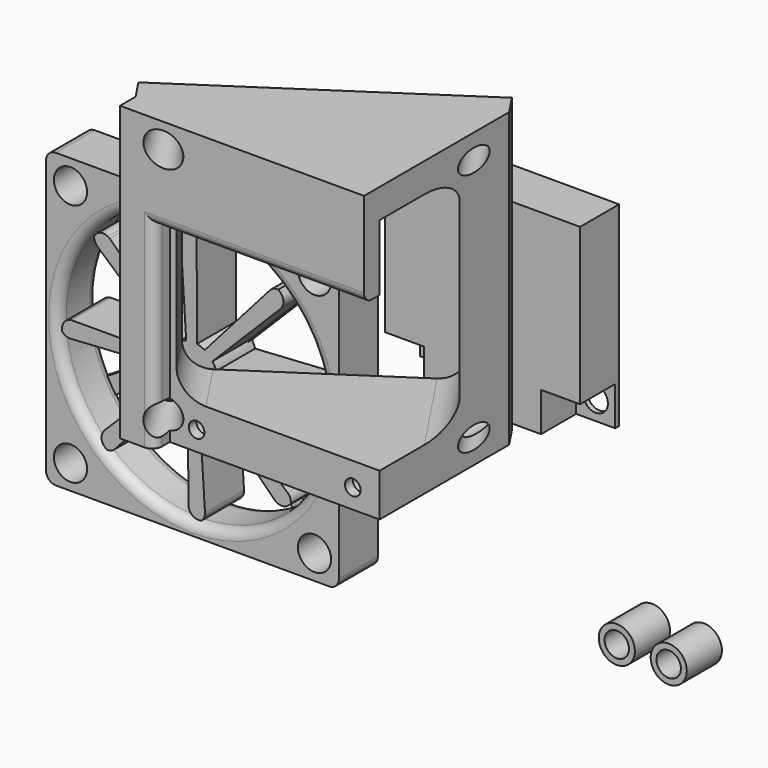
from build123d import *

# Parameters (mm, degrees)
F0_W      = 8
F0_H      = 8
F0_R      = 2.5
F1_DEPTH  = 1
F2_DEPTH  = 10
F3_W      = 60
F3_H      = 60
F3_R      = 3.3994647276
F4_DEPTH  = 10
F5_R      = 3.7
F5_R_2    = 2.5
F6_DEPTH  = 9
F8_DEPTH  = 60
F9_DEPTH  = 5
F10_R     = 2.25
F12_DEPTH = 50
F11_R     = 2.6
F11_R_2   = 1.6
F13_DEPTH = 53.9796929806
F14_DEPTH = 2
F15_DEPTH = 4
F16_R     = 2
F17_DEPTH = 30.9588201344
F17_TAPER = -5
F18_R     = 2
F19_R     = 27.5
F19_R_2   = 5
F20_DEPTH = 25
F21_R     = 2
F23_DEPTH = 10
F24_COUNT = 8
F27_DEPTH = 1


with BuildPart() as f1:
    # F0 (on Front) → F1 (new body)
    with BuildSketch(Plane.XZ):
        with Locations((11.8204413974, 3.2194096744)):
            Rectangle(F0_W, F0_H)
        with Locations((11.8204413974, 3.2194096744)):
            Circle(F0_R, mode=Mode.SUBTRACT)
        with Locations((-20.1795586026, 3.2194096744)):
            Rectangle(F0_W, F0_H)
        with Locations((-20.1795586026, 3.2194096744)):
            Circle(F0_R, mode=Mode.SUBTRACT)
        Polygon((15.8204413974, 39.2194096744), (-24.1795586026, 39.2194096744), (-24.1795586026, 7.2194096744), (-16.1795586026, 7.2194096744), (-16.1795586026, -0.7805903256), (7.8204413974, -0.7805903256), (7.8204413974, 7.2194096744), (15.8204413974, 7.2194096744), align=None)
    extrude(amount=F1_DEPTH)

    # F0 (on Front) → F2 (join)
    with BuildSketch(Plane.XZ):
        Polygon((15.8204413974, 39.2194096744), (-24.1795586026, 39.2194096744), (-24.1795586026, 7.2194096744), (-16.1795586026, 7.2194096744), (-16.1795586026, -0.7805903256), (7.8204413974, -0.7805903256), (7.8204413974, 7.2194096744), (15.8204413974, 7.2194096744), align=None)
    extrude(amount=F2_DEPTH)


with BuildPart() as f4:
    # F3 (on Front) → F4 (new body)
    with BuildSketch(Plane.XZ):
        with Locations((-63.5934416205, -12.3535052731)):
            Rectangle(F3_W, F3_H)
        with Locations((-88.5934416205, -37.3535052731)):
            Circle(F3_R, mode=Mode.SUBTRACT)
        with Locations((-38.5934416205, -37.3535052731)):
            Circle(F3_R, mode=Mode.SUBTRACT)
        with Locations((-88.5934416205, 12.6464947269)):
            Circle(F3_R, mode=Mode.SUBTRACT)
        with Locations((-38.5934416205, 12.6464947269)):
            Circle(F3_R, mode=Mode.SUBTRACT)
    extrude(amount=F4_DEPTH)

    # F18
    f18_edges = [f4.edges().sort_by_distance(p)[0] for p in [
        (-93.593442, -5, 17.646495),
        (-33.593442, -5, 17.646495),
        (-33.593442, -5, -42.353505),
        (-93.593442, -5, -42.353505),
    ]]
    fillet(f18_edges, radius=F18_R)

    # F19 (on face) → F20 (cut)
    with BuildSketch(Plane.XZ.offset(10)):
        with Locations((-63.5934416205, -12.3535052731)):
            Circle(F19_R)
        with Locations((-63.5934416205, -12.3535052731)):
            Circle(F19_R_2, mode=Mode.SUBTRACT)
    extrude(amount=-F20_DEPTH, mode=Mode.SUBTRACT)

    # F21
    f21_edges = [f4.edges().sort_by_distance(p)[0] for p in [
        (-91.093442, -10, -12.353505),
        (-91.093442, 0, -12.353505),
    ]]
    fillet(f21_edges, radius=F21_R)

    # F24: F23 ×8 about axis
    f24_axis = Axis((-63.5934416205, -10, -12.3535052731), (0, -1, 0))


with BuildPart() as f6:
    # F5 (on Front) → F6 (new body)
    with BuildSketch(Plane.XZ):
        with Locations((22.5392952561, -34.3269445002)):
            Circle(F5_R)
        with Locations((22.5392952561, -34.3269445002)):
            Circle(F5_R_2, mode=Mode.SUBTRACT)
    extrude(amount=F6_DEPTH)


with BuildPart() as f6b:
    # F5 (on Front) → F6, piece 2 (new body)
    with BuildSketch(Plane.XZ):
        with Locations((33.1803262234, -34.409083426)):
            Circle(F5_R)
        with Locations((33.1803262234, -34.409083426)):
            Circle(F5_R_2, mode=Mode.SUBTRACT)
    extrude(amount=F6_DEPTH)


with BuildPart() as f8:
    # F7 (on Top) → F8 (new body)
    with BuildSketch(Plane.XY):
        Polygon((7.0557675511, -17.217916518), (-42.9442324489, -50.3841644215), (7.0557675511, -50.3841644215), align=None)
    extrude(amount=F8_DEPTH)

    # F9 (add): a face of the model
    f9_faces = [f8.faces().sort_by_distance(p)[0] for p in [
        (-17.9442324489, -33.8010404698, 30),
    ]]
    extrude(f9_faces, amount=F9_DEPTH)

    # F10 (on face) → F12 (cut)
    with BuildSketch(Plane(origin=(7.3233761989, -11.0404050229, 0), x_dir=(-0.8333333333, -0.5527707984, 0), z_dir=(-0.5527707984, 0.8333333333, 0))):
        with Locations((8.6377551678, 5)):
            Circle(F10_R)
        with Locations((8.6377551678, 55)):
            Circle(F10_R)
        with Locations((58.6377551678, 55)):
            Circle(F10_R)
        with Locations((58.6377551678, 5)):
            Circle(F10_R)
        with BuildLine():
            Line((51.6377551678, 54), (15.6377551678, 54))
            ThreePointArc((15.6377551678, 54), (12.1022212618, 52.5355339059), (10.6377551678, 49))
            Line((10.6377551678, 49), (10.6377551678, 13.8))
            ThreePointArc((10.6377551678, 13.8), (12.1022212618, 10.2644660941), (15.6377551678, 8.8))
            Line((15.6377551678, 8.8), (51.6377551678, 8.8))
            ThreePointArc((51.6377551678, 8.8), (55.1732890737, 10.2644660941), (56.6377551678, 13.8))
            Line((56.6377551678, 13.8), (56.6377551678, 49))
            ThreePointArc((56.6377551678, 49), (55.1732890737, 52.5355339059), (51.6377551678, 54))
        make_face()
    extrude(amount=-F12_DEPTH, mode=Mode.SUBTRACT)

    # F11 (on face) → F13 (cut)
    with BuildSketch(Plane.XZ.offset(50.3841644215)):
        with Locations((-30.4442324489, 4)):
            Circle(F11_R)
        with Locations((-30.4442324489, 4)):
            Circle(F11_R_2, mode=Mode.SUBTRACT)
        with Locations((1.5557675511, 4)):
            Circle(F11_R)
        with Locations((1.5557675511, 4)):
            Circle(F11_R_2, mode=Mode.SUBTRACT)
        with Locations((-30.4442324489, 4)):
            Circle(F11_R_2)
        with Locations((1.5557675511, 4)):
            Circle(F11_R_2)
    extrude(amount=-F13_DEPTH, mode=Mode.SUBTRACT)

    # F11 (on face) → F14 (join)
    with BuildSketch(Plane.XZ.offset(50.3841644215)):
        with Locations((1.5557675511, 4)):
            Circle(F11_R)
        with Locations((1.5557675511, 4)):
            Circle(F11_R_2, mode=Mode.SUBTRACT)
        with Locations((-30.4442324489, 4)):
            Circle(F11_R)
        with Locations((-30.4442324489, 4)):
            Circle(F11_R_2, mode=Mode.SUBTRACT)
    extrude(amount=-F14_DEPTH)

    # F11 (on face) → F15 (join)
    with BuildSketch(Plane.XZ.offset(50.3841644215)):
        Polygon((-42.9442324489, 0), (-35.9442324489, 0), (-35.9442324489, 40.5), (7.0557675511, 40.5), (7.0557675511, 60), (-42.9442324489, 60), align=None)
    extrude(amount=F15_DEPTH)

    # F16
    f16_edges = [f8.edges().sort_by_distance(p)[0] for p in [
        (-14.444232, -54.384164, 40.5),
        (-35.944232, -54.384164, 20.25),
    ]]
    fillet(f16_edges, radius=F16_R)

    # F10 (on face) → F17 (cut)
    with BuildSketch(Plane(origin=(7.3233761989, -11.0404050229, 0), x_dir=(-0.8333333333, -0.5527707984, 0), z_dir=(-0.5527707984, 0.8333333333, 0))):
        with Locations((58.6377551678, 5)):
            Circle(F10_R)
        with Locations((58.6377551678, 55)):
            Circle(F10_R)
    extrude(amount=-F17_DEPTH, taper=F17_TAPER, mode=Mode.SUBTRACT)


with BuildPart() as f23:
    # F22 (on face) → F23 (new body)
    with BuildSketch(Plane.XZ.offset(10)):
        with BuildLine():
            ThreePointArc((-64.8880721536, -7.5240196087), (-63.7973203895, -7.3576636576), (-62.6966404331, -7.4345879502))
            Line((-62.6966404331, -7.4345879502), (-62.7352969271, 12.4692813025))
            Line((-62.7352969271, 12.4692813025), (-62.8499442388, 12.8884165057))
            ThreePointArc((-62.8499442388, 12.8884165057), (-63.6050507133, 13.9798900582), (-64.8771690015, 14.3583281175))
            Line((-64.8771690015, 14.3583281175), (-65.3939362648, 14.3329521508))
            Line((-65.3939362648, 14.3329521508), (-65.4691825523, 14.2670886842))
            ThreePointArc((-65.4691825523, 14.2670886842), (-65.9981441703, 13.5312086316), (-66.148019259, 12.6374204558))
            Line((-66.148019259, 12.6374204558), (-64.8880721536, -7.5240196087))
        make_face()
    extrude(amount=-F23_DEPTH)


with BuildPart() as f4_1:
    add(f4.part)
    for i in range(1, F24_COUNT):
        add(f23.part.rotate(f24_axis, i * 360 / F24_COUNT))


with BuildPart() as f23_1:
    add(f23.part)

    # F25: union F4
    add(f4_1.part)

    # F26 (on face) → F27 (join)
    with BuildSketch(Plane(origin=(0, 0, 0), x_dir=(-1, 0, 0), z_dir=(0, 1, 0))):
        with BuildLine():
            Line((59.3857415049, -9.6525314234), (59.8795133609, -10.1475001147))
            ThreePointArc((59.8795133609, -10.1475001147), (59.3276015654, -13.0334541684), (60.7493760263, -15.6048146666))
            Line((60.7493760263, -15.6048146666), (58.9733754809, -18.2349546333))
            Line((58.9733754809, -18.2349546333), (60.7493760263, -16.4658392693))
            ThreePointArc((60.7493760263, -16.4658392693), (61.4932563817, -16.8910400623), (62.2988110874, -17.1829909375))
            Line((62.2988110874, -17.1829909375), (62.1940607938, -18.8591857207))
            Line((62.1940607938, -18.8591857207), (63.6537501702, -16.6727742801))
            ThreePointArc((63.6537501702, -16.6727742801), (65.6979789264, -16.1258579348), (67.2371575896, -14.6736466076))
            Line((67.2371575896, -14.6736466076), (67.7968691135, -15.0611236566))
            ThreePointArc((67.7968691135, -15.0611236566), (68.1648214662, -14.3789648027), (68.4229272849, -13.6481358062))
            Line((68.4229272849, -13.6481358062), (69.3157548983, -13.7039312039))
            Line((69.3157548983, -13.7039312039), (67.8857730382, -12.838904981))
            ThreePointArc((67.8857730382, -12.838904981), (67.5018674825, -10.5139593627), (65.9548934872, -8.7364253795))
            Line((65.9548934872, -8.7364253795), (66.2125008648, -8.0943353217))
            ThreePointArc((66.2125008648, -8.0943353217), (65.5709544325, -7.7611809076), (64.8880721536, -7.5240196087))
            Line((64.8880721536, -7.5240196087), (65.1033473095, -4.079226462))
            Line((65.1033473095, -4.079226462), (63.5934416205, -8.0338152523))
            ThreePointArc((63.5934416205, -8.0338152523), (62.1655509721, -8.2766375819), (60.8981920895, -8.9778050729))
            Line((60.8981920895, -8.9778050729), (52.8833540994, 1.2820762146))
            Line((52.8833540994, 1.2820762146), (47.7285477406, 7.1241069492))
            ThreePointArc((47.7285477406, 7.1241069492), (46.9905663691, 7.6501329377), (46.0961882466, 7.796446366))
            Line((46.0961882466, 7.796446366), (45.9964085827, 7.7898117097))
            Line((45.9964085827, 7.7898117097), (45.6130554283, 7.4423455916))
            ThreePointArc((45.6130554283, 7.4423455916), (44.9811280783, 6.2752260056), (45.2189755201, 4.9694967465))
            Line((45.2189755201, 4.9694967465), (45.434280973, 4.5920555106))
            Line((45.434280973, 4.5920555106), (59.4811076243, -9.509439679))
            ThreePointArc((59.4811076243, -9.509439679), (59.4328093708, -9.580575544), (59.3857415049, -9.6525314234))
        make_face()
        with BuildLine():
            Line((41.3713566959, 8.4055177867), (59.3857415049, -9.6525314234))
            ThreePointArc((59.3857415049, -9.6525314234), (59.4328093708, -9.580575544), (59.4811076243, -9.509439679))
            Line((59.4811076243, -9.509439679), (45.434280973, 4.5920555106))
            Line((45.434280973, 4.5920555106), (45.2189755201, 4.9694967465))
            ThreePointArc((45.2189755201, 4.9694967465), (44.9811280783, 6.2752260056), (45.6130554283, 7.4423455916))
            Line((45.6130554283, 7.4423455916), (45.9964085827, 7.7898117097))
            Line((45.9964085827, 7.7898117097), (46.0961882466, 7.796446366))
            ThreePointArc((46.0961882466, 7.796446366), (46.9905663691, 7.6501329377), (47.7285477406, 7.1241069492))
            Line((47.7285477406, 7.1241069492), (52.8833540994, 1.2820762146))
            Line((52.8833540994, 1.2820762146), (44.9971966445, 11.3772321492))
            Line((44.9971966445, 11.3772321492), (41.3713566959, 8.4055177867))
        make_face()
        with BuildLine():
            Line((60.7493760263, -16.4658392693), (58.9733754809, -18.2349546333))
            Line((58.9733754809, -18.2349546333), (45.7227602601, -37.8582440317))
            Line((45.7227602601, -37.8582440317), (48.7649664283, -38.9740992305))
            Line((48.7649664283, -38.9740992305), (62.1940607938, -18.8591857207))
            Line((62.1940607938, -18.8591857207), (62.2988110874, -17.1829909375))
            ThreePointArc((62.2988110874, -17.1829909375), (61.4932563817, -16.8910400623), (60.7493760263, -16.4658392693))
        make_face()
        with BuildLine():
            ThreePointArc((68.4229272849, -13.6481358062), (68.1648214662, -14.3789648027), (67.7968691135, -15.0611236566))
            Line((67.7968691135, -15.0611236566), (89.0263468027, -29.7578647733))
            Line((89.0263468027, -29.7578647733), (91.1656394601, -26.9213877618))
            Line((91.1656394601, -26.9213877618), (69.3157548983, -13.7039312039))
            Line((69.3157548983, -13.7039312039), (68.4229272849, -13.6481358062))
        make_face()
        with BuildLine():
            Line((72.8645250201, 16.2480473518), (65.1033473095, -4.079226462))
            Line((65.1033473095, -4.079226462), (64.8880721536, -7.5240196087))
            ThreePointArc((64.8880721536, -7.5240196087), (65.5709544325, -7.7611809076), (66.2125008648, -8.0943353217))
            Line((66.2125008648, -8.0943353217), (75.6477043033, 15.423043631))
            Line((75.6477043033, 15.423043631), (72.8645250201, 16.2480473518))
        make_face()
    extrude(amount=-F27_DEPTH)


solid = Compound([f1.part, f6.part, f6b.part, f8.part, f23_1.part])
